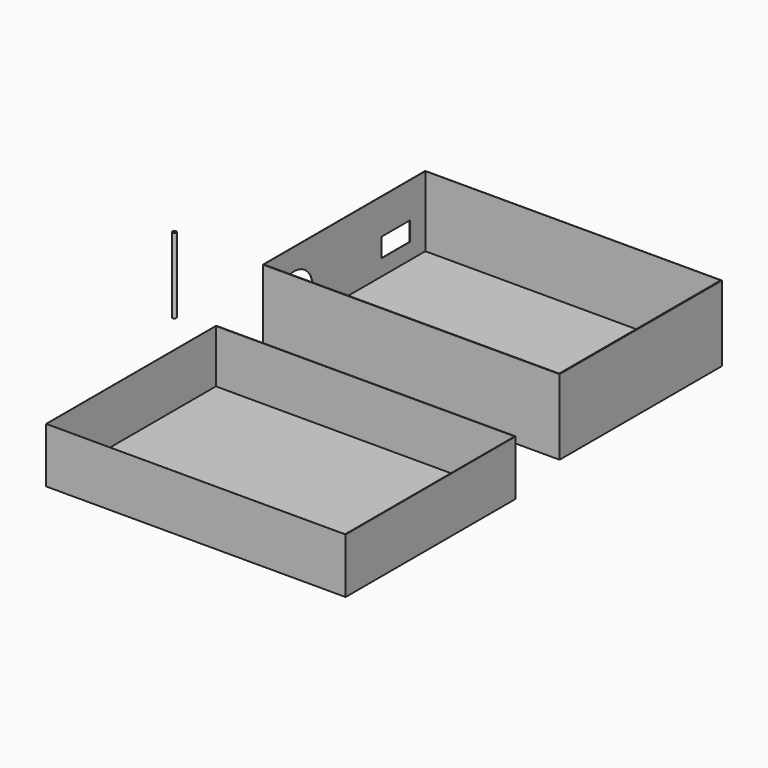
from build123d import *

# Parameters (mm, degrees)
F0_R      = 0.480721
F0_W      = 77.978
F0_H      = 53.34
F1_DEPTH  = 19.812
F2_R      = 6.148784
F3_DEPTH  = 25.4
F4_W      = 77.660104
F4_H      = 53.111837
F5_DEPTH  = 18.542
F6_W      = 9.424716
F6_H      = 4.989866
F7_DEPTH  = 25.4
F8_W      = 78.74
F8_H      = 55.88
F9_DEPTH  = 14.478
F10_W     = 78.546543
F10_H     = 55.719186
F11_DEPTH = 13.97


with BuildPart() as f1:
    # F0 (on Top) → F1 (new body)
    with BuildSketch(Plane.XY):
        with Locations((-101.256253, 0)):
            Circle(F0_R)
        with Locations((-38.989, 26.67)):
            Rectangle(F0_W, F0_H)
    extrude(amount=F1_DEPTH)

    # F2 (on face) → F3 (cut)
    with BuildSketch(Plane(origin=(-77.978, 0, 0), x_dir=(0, -1, 0), z_dir=(-1, 0, 0))):
        with Locations((-10.143096, 8.018783)):
            Circle(F2_R)
    extrude(amount=-F3_DEPTH, mode=Mode.SUBTRACT)

    # F4 (on face) → F5 (cut)
    with BuildSketch(Plane.XY.offset(19.812)):
        with Locations((-39.079075, 26.722836)):
            Rectangle(F4_W, F4_H)
    extrude(amount=-F5_DEPTH, mode=Mode.SUBTRACT)

    # F6 (on face) → F7 (cut)
    with BuildSketch(Plane(origin=(-77.978, 0, 0), x_dir=(0, -1, 0), z_dir=(-1, 0, 0))):
        with Locations((-43.496434, 7.990607)):
            Rectangle(F6_W, F6_H)
    extrude(amount=-F7_DEPTH, mode=Mode.SUBTRACT)


with BuildPart() as f9:
    # F8 (on Top) → F9 (new body)
    with BuildSketch(Plane.XY):
        with Locations((-35.543442, -47.15838)):
            Rectangle(F8_W, F8_H)
    extrude(amount=F9_DEPTH)

    # F10 (on face) → F11 (cut)
    with BuildSketch(Plane.XY.offset(14.478)):
        with Locations((-35.598492, -47.207823)):
            Rectangle(F10_W, F10_H)
    extrude(amount=-F11_DEPTH, mode=Mode.SUBTRACT)


solid = Compound([f1.part, f9.part])
